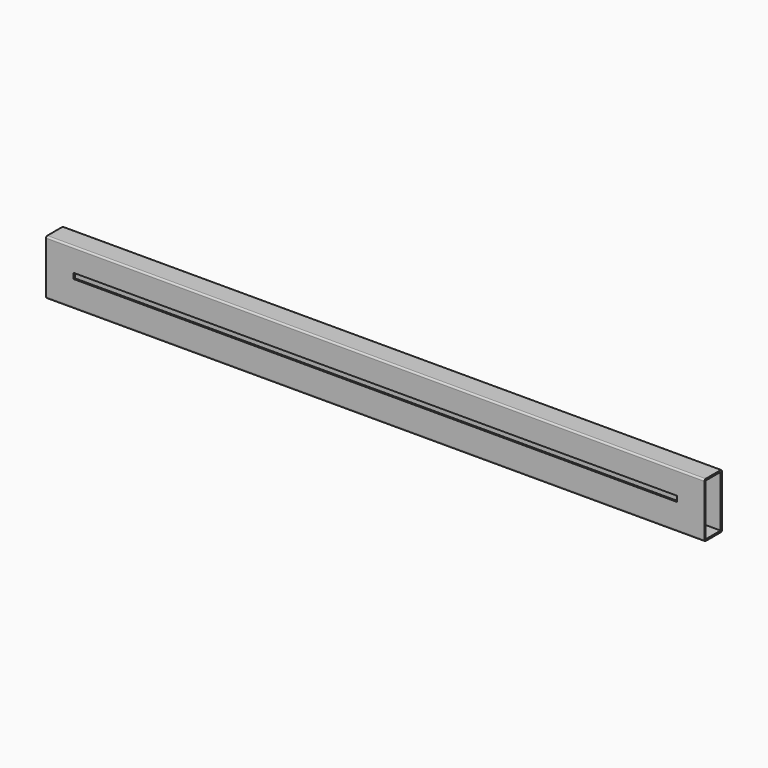
from build123d import *

# Parameters (mm, degrees)
F1_W     = 34
F1_H     = 94
F2_DEPTH = 600
F5_W     = 1100
F5_H     = 10
F6_DEPTH = 40.001


with BuildPart() as f2:
    # F1 (on Right) → F2 (new body, symmetric)
    with BuildSketch(Plane.YZ):
        with BuildLine():
            ThreePointArc((-19.2521204937, -49.7380952381), (-18.3734408372, -51.8594155817), (-16.2521204937, -52.7380952381))
            Line((-16.2521204937, -52.7380952381), (17.7478795063, -52.7380952381))
            ThreePointArc((17.7478795063, -52.7380952381), (19.8691998499, -51.8594155817), (20.7478795063, -49.7380952381))
            Line((20.7478795063, -49.7380952381), (20.7478795063, 44.2619047619))
            ThreePointArc((20.7478795063, 44.2619047619), (19.8691998499, 46.3832251055), (17.7478795063, 47.2619047619))
            Line((17.7478795063, 47.2619047619), (-16.2521204937, 47.2619047619))
            ThreePointArc((-16.2521204937, 47.2619047619), (-18.3734408372, 46.3832251055), (-19.2521204937, 44.2619047619))
            Line((-19.2521204937, 44.2619047619), (-19.2521204937, -49.7380952381))
        make_face()
        with Locations((0.7478795063, -2.7380952381)):
            Rectangle(F1_W, F1_H, mode=Mode.SUBTRACT)
    extrude(amount=F2_DEPTH, both=True)


with BuildPart() as f3_1:
    # F3: copy of F2
    add(f2.part)


with BuildPart() as f2_1:
    add(f2.part)

    # F5 (on face) → F6 (cut, through all)
    with BuildSketch(Plane.XZ.offset(19.2521204937)):
        Rectangle(F5_W, F5_H)
    extrude(amount=-F6_DEPTH, mode=Mode.SUBTRACT)


solid = f2_1.part
